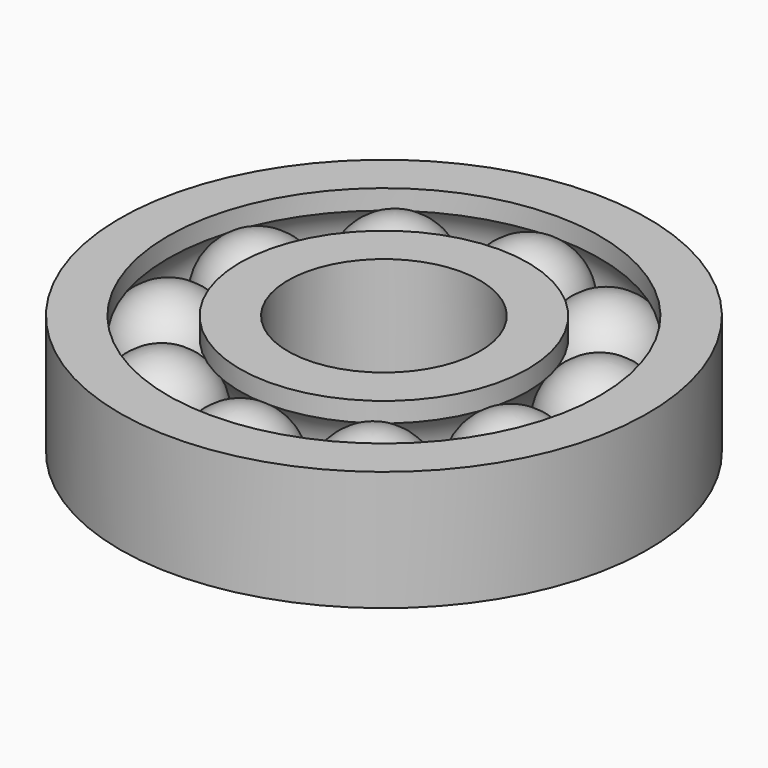
from build123d import *

# Parameters (mm, degrees)
ARRAY_COUNT = 10


with BuildPart() as revolution:
    # Sketch → Revolution (revolve)
    with BuildSketch(Plane.YZ):
        with BuildLine():
            Line((9, 0.822949), (9, 0))
            Line((9, 0), (11, 0))
            Line((11, 0), (11, 5))
            Line((11, 5), (9, 5))
            Line((9, 5), (9, 4.177051))
            ThreePointArc((9, 0.822949), (9.75, 2.5), (9, 4.177051))
        make_face()
    revolve(axis=Axis((0, 0, 0), (0, 0, 1)))


with BuildPart() as revolution001:
    # Sketch001 → Revolution001 (revolve)
    with BuildSketch(Plane.YZ):
        with BuildLine():
            Line((6, 0), (4, 0))
            Line((4, 0), (4, 5))
            Line((4, 5), (6, 5))
            Line((6, 5), (6, 4.177051))
            ThreePointArc((6, 4.177051), (5.25, 2.5), (6, 0.822949))
            Line((6, 0), (6, 0.822949))
        make_face()
    revolve(axis=Axis((0, 0, 0), (0, 0, 1)))


with BuildPart() as array:
    # Sketch002 → Revolution002 (revolve)
    with BuildSketch(Plane.YZ):
        with BuildLine():
            ThreePointArc((7.5, 0.25), (9.75, 2.5), (7.5, 4.75))
            Line((7.5, 4.75), (7.5, 0.25))
        make_face()
    revolve(axis=Axis((0, 7.5, 0.25), (0, 0, -1)))

    # Array: Array ×10 about axis
    array_axis = Axis((0, 0, 0), (0, 0, 1))


with BuildPart() as array_1:
    add(array.part)
    for i in range(1, ARRAY_COUNT):
        add(array.part.rotate(array_axis, i * 360 / ARRAY_COUNT))


solid = Compound([revolution.part, revolution001.part, array_1.part])
